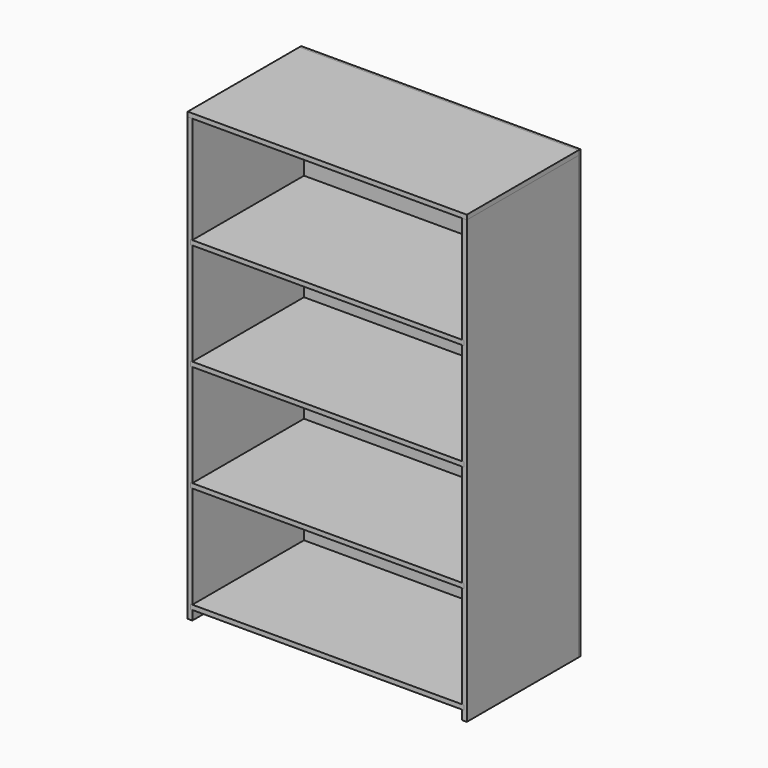
from build123d import *

# Parameters (mm, degrees)
F1_DEPTH = 381
F2_DEPTH = 381
F0_W     = 736.6
F0_H     = 292.1
F0_H_2   = 279.4
F3_DEPTH = 6.35


with BuildPart() as f1:
    # F0 (on Front) → F1 (new body)
    with BuildSketch(Plane.XZ):
        Polygon((754.0625, 25.4), (749.3, 25.4), (749.3, 0), (762, 0), (762, 1206.5), (749.3, 1206.5), (749.3, 914.4), (754.0625, 914.4), (754.0625, 901.7), (749.3, 901.7), (749.3, 622.3), (754.0625, 622.3), (754.0625, 609.6), (749.3, 609.6), (749.3, 330.2), (754.0625, 330.2), (754.0625, 317.5), (749.3, 317.5), (749.3, 38.1), (754.0625, 38.1), align=None)
        Polygon((0, 1206.5), (0, 0), (12.7, 0), (12.7, 25.4), (7.9375, 25.4), (7.9375, 38.1), (12.7, 38.1), (12.7, 317.5), (7.9375, 317.5), (7.9375, 330.2), (12.7, 330.2), (12.7, 609.6), (7.9375, 609.6), (7.9375, 622.3), (12.7, 622.3), (12.7, 901.7), (7.9375, 901.7), (7.9375, 914.4), (12.7, 914.4), (12.7, 1206.5), align=None)
    extrude(amount=F1_DEPTH)


with BuildPart() as f2:
    # F0 (on Front) → F2 (new body)
    with BuildSketch(Plane.XZ):
        Polygon((7.9375, 25.4), (12.7, 25.4), (749.3, 25.4), (754.0625, 25.4), (754.0625, 38.1), (749.3, 38.1), (12.7, 38.1), (7.9375, 38.1), align=None)
        Polygon((7.9375, 317.5), (12.7, 317.5), (749.3, 317.5), (754.0625, 317.5), (754.0625, 330.2), (749.3, 330.2), (12.7, 330.2), (7.9375, 330.2), align=None)
        Polygon((749.3, 622.3), (12.7, 622.3), (7.9375, 622.3), (7.9375, 609.6), (12.7, 609.6), (749.3, 609.6), (754.0625, 609.6), (754.0625, 622.3), align=None)
        Polygon((749.3, 914.4), (12.7, 914.4), (7.9375, 914.4), (7.9375, 901.7), (12.7, 901.7), (749.3, 901.7), (754.0625, 901.7), (754.0625, 914.4), align=None)
        Polygon((0, 1219.2), (0, 1206.5), (12.7, 1206.5), (749.3, 1206.5), (762, 1206.5), (762, 1219.2), align=None)
    extrude(amount=F2_DEPTH)


with BuildPart() as f3:
    # F0 (on Front) → F3 (new body)
    with BuildSketch(Plane.XZ):
        with Locations((381, 1060.45)):
            Rectangle(F0_W, F0_H)
        with Locations((381, 762)):
            Rectangle(F0_W, F0_H_2)
        with Locations((381, 469.9)):
            Rectangle(F0_W, F0_H_2)
        with Locations((381, 177.8)):
            Rectangle(F0_W, F0_H_2)
        Polygon((754.0625, 25.4), (749.3, 25.4), (749.3, 0), (762, 0), (762, 1206.5), (749.3, 1206.5), (749.3, 914.4), (754.0625, 914.4), (754.0625, 901.7), (749.3, 901.7), (749.3, 622.3), (754.0625, 622.3), (754.0625, 609.6), (749.3, 609.6), (749.3, 330.2), (754.0625, 330.2), (754.0625, 317.5), (749.3, 317.5), (749.3, 38.1), (754.0625, 38.1), align=None)
        Polygon((0, 1206.5), (0, 0), (12.7, 0), (12.7, 25.4), (7.9375, 25.4), (7.9375, 38.1), (12.7, 38.1), (12.7, 317.5), (7.9375, 317.5), (7.9375, 330.2), (12.7, 330.2), (12.7, 609.6), (7.9375, 609.6), (7.9375, 622.3), (12.7, 622.3), (12.7, 901.7), (7.9375, 901.7), (7.9375, 914.4), (12.7, 914.4), (12.7, 1206.5), align=None)
        Polygon((0, 1219.2), (0, 1206.5), (12.7, 1206.5), (749.3, 1206.5), (762, 1206.5), (762, 1219.2), align=None)
        Polygon((749.3, 914.4), (12.7, 914.4), (7.9375, 914.4), (7.9375, 901.7), (12.7, 901.7), (749.3, 901.7), (754.0625, 901.7), (754.0625, 914.4), align=None)
        Polygon((749.3, 622.3), (12.7, 622.3), (7.9375, 622.3), (7.9375, 609.6), (12.7, 609.6), (749.3, 609.6), (754.0625, 609.6), (754.0625, 622.3), align=None)
        Polygon((7.9375, 317.5), (12.7, 317.5), (749.3, 317.5), (754.0625, 317.5), (754.0625, 330.2), (749.3, 330.2), (12.7, 330.2), (7.9375, 330.2), align=None)
        Polygon((7.9375, 25.4), (12.7, 25.4), (749.3, 25.4), (754.0625, 25.4), (754.0625, 38.1), (749.3, 38.1), (12.7, 38.1), (7.9375, 38.1), align=None)
    extrude(amount=-F3_DEPTH)


solid = Compound([f1.part, f2.part, f3.part])
